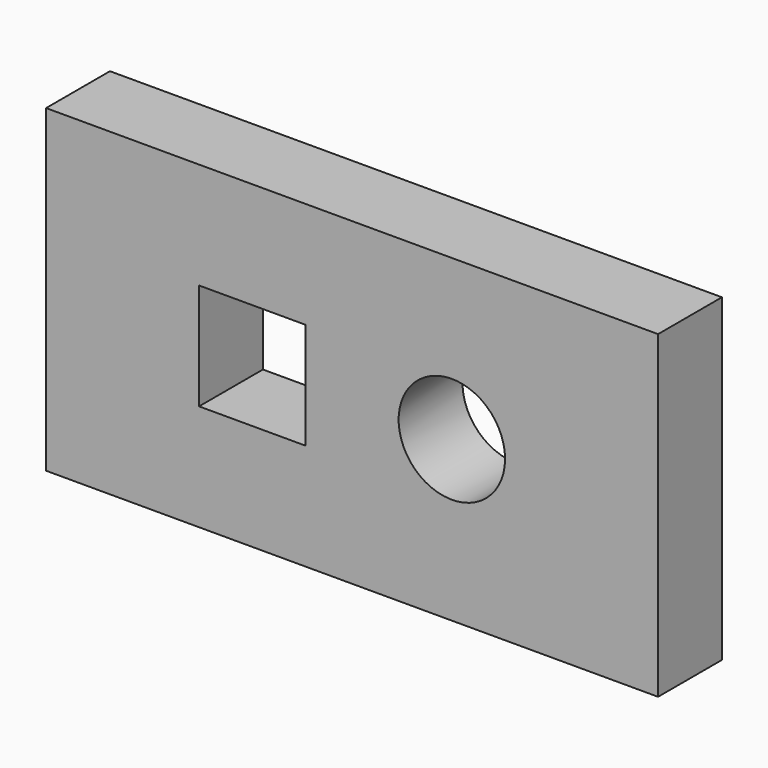
from build123d import *

# Parameters (mm, degrees)
F0_W     = 146.05
F0_H     = 76.2
F2_DEPTH = 19.05
F1_R     = 12.7
F1_W     = 25.4
F1_H     = 25.4
F3_DEPTH = 25.4


with BuildPart() as f2:
    # F0 (on Front) → F2 (new body)
    with BuildSketch(Plane.XZ):
        with Locations((-20.143696, 11.364471)):
            Rectangle(F0_W, F0_H)
    extrude(amount=F2_DEPTH)

    # F1 (on face) → F3 (cut)
    with BuildSketch(Plane.XZ):
        with Locations((3.668804, 11.364471)):
            Circle(F1_R)
        with Locations((-43.956196, 11.364471)):
            Rectangle(F1_W, F1_H)
    extrude(amount=F3_DEPTH, mode=Mode.SUBTRACT)


solid = f2.part
